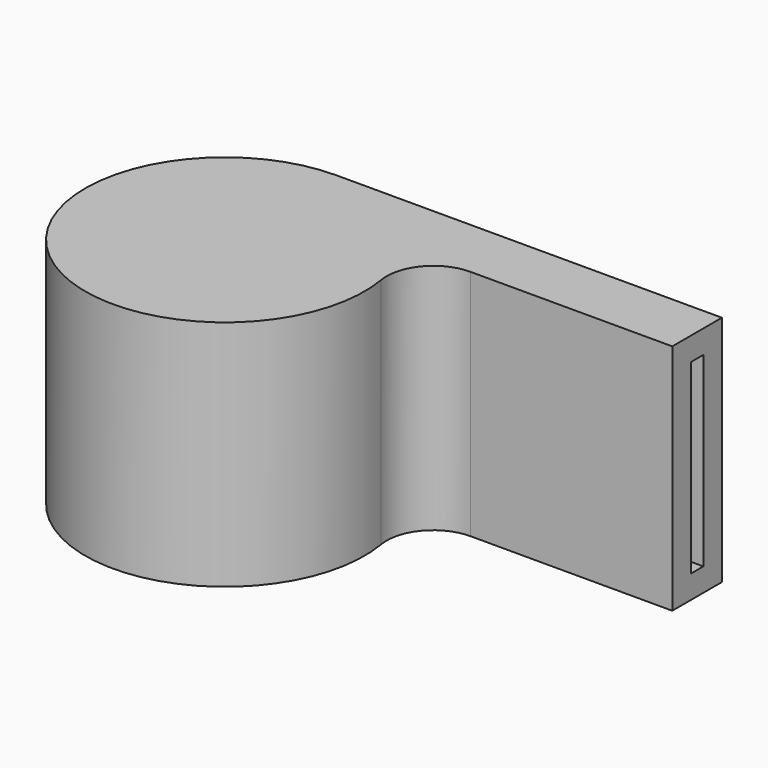
from build123d import *

# Parameters (mm, degrees)
F1_DEPTH = 7.5
F2_T     = -1.5
F3_W     = 4
F3_H     = 12
F4_DEPTH = 1.5


with BuildPart() as f1:
    # F0 (on Top) → F1 (new body, symmetric)
    with BuildSketch(Plane.XY):
        with BuildLine():
            Line((24.83216, 9), (0, 9))
            ThreePointArc((0, 9), (-5.809475, -6.873864), (8.87412, 1.5))
            ThreePointArc((8.87412, 1.5), (9.540872, 3.936492), (11.83216, 5))
            Line((11.83216, 5), (24.83216, 5))
            Line((24.83216, 5), (24.83216, 9))
        make_face()
    extrude(amount=F1_DEPTH, both=True)

    # F2
    f2_openings = [f1.faces().sort_by_distance(p)[0] for p in [
        (24.83216, 7, 0),
    ]]
    offset(amount=F2_T, openings=f2_openings)

    # F3 (on face) → F4 (cut)
    with BuildSketch(Plane(origin=(0, 9, 0), x_dir=(-1, 0, 0), z_dir=(0, 1, 0))):
        with Locations((-5, 0)):
            Rectangle(F3_W, F3_H)
    extrude(amount=-F4_DEPTH, mode=Mode.SUBTRACT)


with BuildPart() as f6:
    # F5 (on Top) → F6 (revolve)
    with BuildSketch(Plane.XY):
        with BuildLine():
            ThreePointArc((0, 2.5), (-5, -2.5), (0, -7.5))
            Line((0, -7.5), (0, 2.5))
        make_face()
    revolve(axis=Axis((0, -2.5, 0), (0, -1, 0)))


solid = Compound([f1.part, f6.part])
